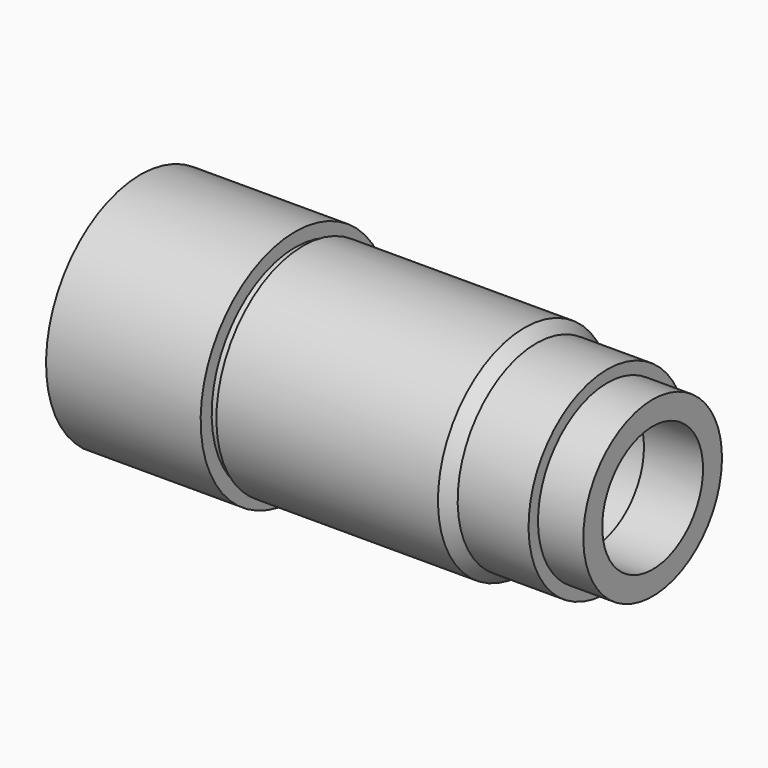
from build123d import *

# Parameters (mm, degrees)
F2_R     = 16
F3_DEPTH = 130
F4_R     = 19
F5_DEPTH = 115


with BuildPart() as f1:
    # F0 (on Front) → F1 (revolve)
    with BuildSketch(Plane.XZ):
        Polygon((-65, 30), (-65, 0), (65, 0), (65, 22), (53.5, 22), (53.5, 25), (35.5, 25), (32.5, 27.5), (-23.75, 27.5), (-23.75, 26.5), (-25.75, 26.5), (-25.75, 30), align=None)
    revolve(axis=Axis((0, 0, 0), (-1, 0, 0)))

    # F2 (on face) → F3 (cut, through all)
    with BuildSketch(Plane.YZ.offset(65)):
        Circle(F2_R)
    extrude(amount=-F3_DEPTH, mode=Mode.SUBTRACT)

    # F4 (on face) → F5 (cut)
    with BuildSketch(Plane(origin=(-65, 0, 0), x_dir=(0, -1, 0), z_dir=(-1, 0, 0))):
        Circle(F4_R)
    extrude(amount=-F5_DEPTH, mode=Mode.SUBTRACT)


solid = f1.part
